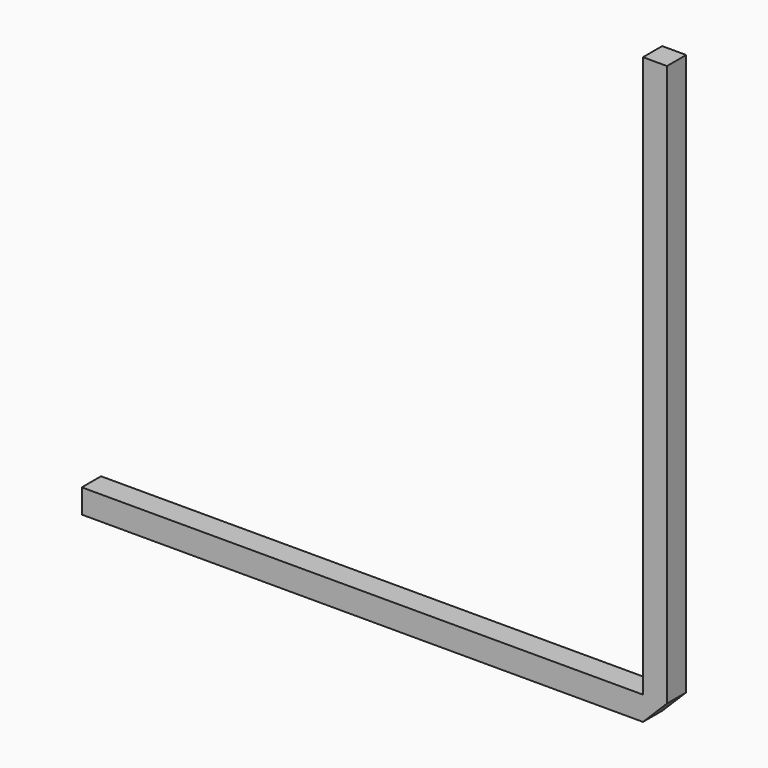
from build123d import *

# Parameters (mm, degrees)
F0_W     = 25.4
F0_H     = 593.5472
F0_W_2   = 593.5345
F0_H_2   = 25.4
F1_DEPTH = 25.4
F2_W     = 5.08
F2_H     = 583.3872
F3_DEPTH = 7.62
F4_W     = 583.3745
F4_H     = 5.08
F5_DEPTH = 7.62


with BuildPart() as f1:
    # F0 (on Front) → F1 (new body)
    with BuildSketch(Plane.XZ):
        with Locations((101.022233, 190.518868)):
            Rectangle(F0_W, F0_H)
        Polygon((88.322233, -106.254732), (88.322233, -131.654732), (113.722233, -106.254732), align=None)
        with Locations((-208.445017, -118.954732)):
            Rectangle(F0_W_2, F0_H_2)
    extrude(amount=F1_DEPTH)

    # F2 (on face) → F3 (cut)
    with BuildSketch(Plane(origin=(0, 0, 0), x_dir=(-1, 0, 0), z_dir=(0, 1, 0))):
        with Locations((-101.022233, 185.438868)):
            Rectangle(F2_W, F2_H)
    extrude(amount=-F3_DEPTH, mode=Mode.SUBTRACT)

    # F4 (on face) → F5 (cut)
    with BuildSketch(Plane(origin=(0, 0, 0), x_dir=(-1, 0, 0), z_dir=(0, 1, 0))):
        with Locations((203.365017, -118.954732)):
            Rectangle(F4_W, F4_H)
    extrude(amount=-F5_DEPTH, mode=Mode.SUBTRACT)


solid = f1.part
